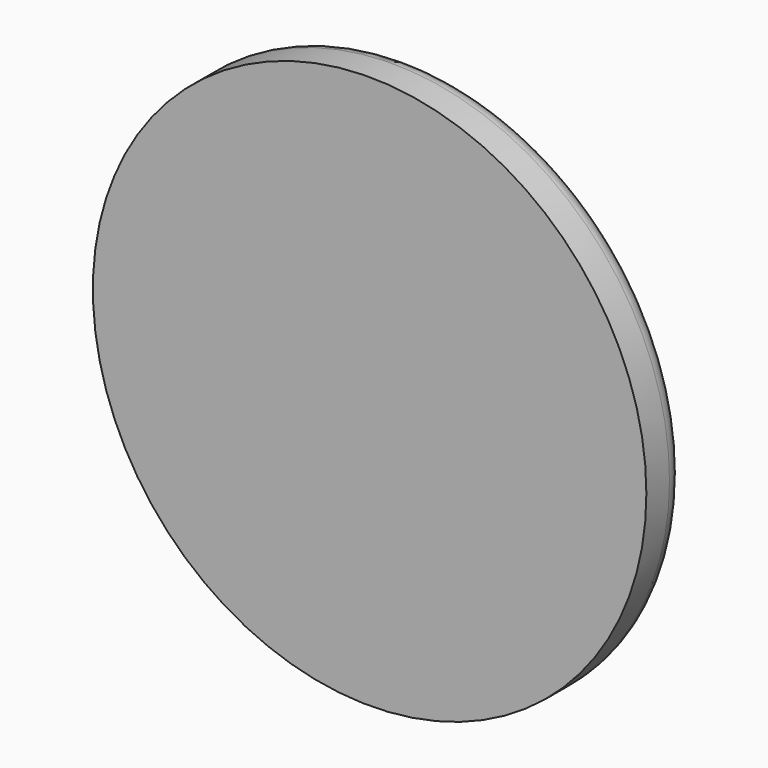
from build123d import *

# Parameters (mm, degrees)
F0_R     = 73.025
F1_DEPTH = 12.7
F2_R     = 5.08
F3_R     = 12.7
F4_DEPTH = 6.35


with BuildPart() as f1:
    # F0 (on Front) → F1 (new body)
    with BuildSketch(Plane.XZ):
        Circle(F0_R)
    extrude(amount=-F1_DEPTH)

    # F2
    f2_edges = [f1.edges().sort_by_distance(p)[0] for p in [
        (-73.025, 12.7, 0),
    ]]
    fillet(f2_edges, radius=F2_R)

    # F3 (on face) → F4 (join)
    with BuildSketch(Plane(origin=(0, 12.7, 0), x_dir=(-1, 0, 0), z_dir=(0, 1, 0))):
        with Locations((48.768654, 0)):
            Circle(F3_R)
    extrude(amount=F4_DEPTH)


solid = f1.part
